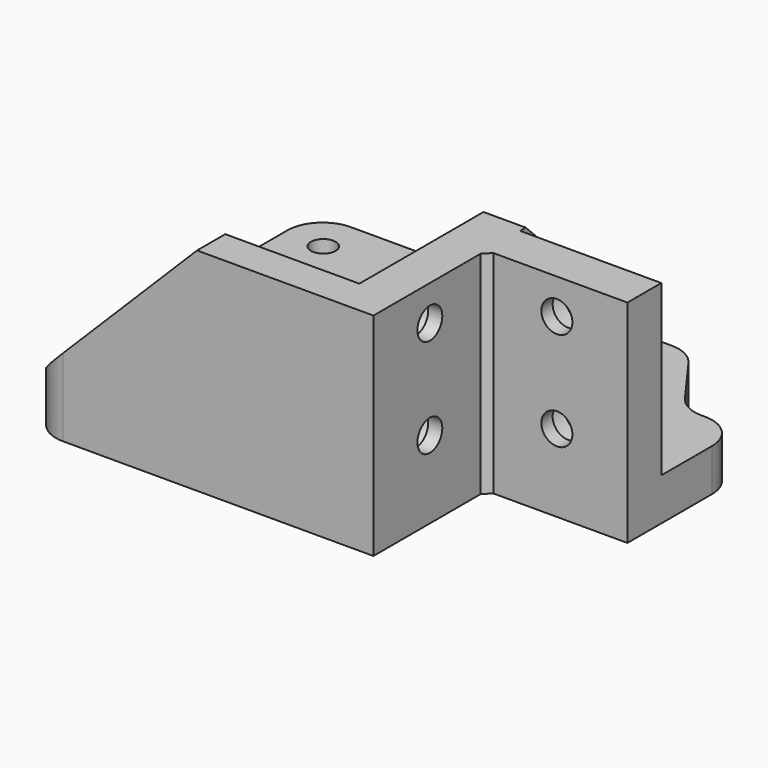
from build123d import *

# Parameters (mm, degrees)
F0_R            = 1.75
F0_R_2          = 11
F1_DEPTH        = 6
F2_SIZE         = 1
F4_DEPTH        = 24
F5_DEPTH        = 10
F6_SIZE         = 1
F8_D            = 4.4
F8_CBORE_D      = 8.25
F8_CBORE_DEPTH  = 4
F10_D           = 4.4
F10_CBORE_D     = 8.25
F10_CBORE_DEPTH = 4
F11_W           = 6
F11_H           = 24
F12_DEPTH       = 25
F13_W           = 5
F13_H           = 24
F14_DEPTH       = 43
F15_SIZE        = 24
F16_R           = 5


with BuildPart() as f1:
    # F0 (on Top) → F1 (new body)
    with BuildSketch(Plane.XY):
        Polygon((18.8770524859, 25.5778683759), (-30.1229475141, 25.5778683759), (-30.1229475141, -25.4221316241), (18.8770524859, -25.4221316241), (18.8770524859, -5.4221316241), align=None)
        with Locations((-24.6229475141, -10.9221316241)):
            Circle(F0_R, mode=Mode.SUBTRACT)
        with Locations((6.3770524859, -10.9221316241)):
            Circle(F0_R, mode=Mode.SUBTRACT)
        with Locations((-9.1229475141, 4.5778683759)):
            Circle(F0_R_2, mode=Mode.SUBTRACT)
        with Locations((-24.6229475141, 20.0778683759)):
            Circle(F0_R, mode=Mode.SUBTRACT)
        with Locations((6.3770524859, 20.0778683759)):
            Circle(F0_R, mode=Mode.SUBTRACT)
        Polygon((22.8770524859, 25.5778683759), (18.8770524859, 25.5778683759), (18.8770524859, -5.4221316241), (38.8770524859, -5.4221316241), (38.8770524859, 14.5778683759), (30.8770524859, 14.5778683759), align=None)
    extrude(amount=F1_DEPTH)

    # F2
    f2_edges = [f1.edges().sort_by_distance(p)[0] for p in [
        (-26.372948, 20.077868, 0),
        (4.627052, 20.077868, 0),
        (4.627052, -10.922132, 0),
        (-26.372948, -10.922132, 0),
    ]]
    chamfer(f2_edges, length=F2_SIZE)

    # F3 (on face) → F4 (join)
    with BuildSketch(Plane.XY.offset(6)):
        Polygon((18.8770524859, -25.4221316241), (18.8770524859, -5.4221316241), (38.8770524859, -5.4221316241), (38.8770524859, 0.5778683759), (12.8770524859, 0.5778683759), (12.8770524859, -25.4221316241), align=None)
    extrude(amount=F4_DEPTH)

    # F3 (on face) → F5 (join)
    with BuildSketch(Plane.XY.offset(6)):
        Polygon((18.8770524859, -25.4221316241), (18.8770524859, -5.4221316241), (38.8770524859, -5.4221316241), (38.8770524859, 0.5778683759), (12.8770524859, 0.5778683759), (12.8770524859, -25.4221316241), align=None)
    extrude(amount=F5_DEPTH)

    # F6
    f6_edges = [f1.edges().sort_by_distance(p)[0] for p in [
        (18.877052, -5.422132, 15),
    ]]
    chamfer(f6_edges, length=F6_SIZE)

    # F8 (through all)
    with Locations(Plane(origin=(0, 0.5778683759, 0), x_dir=(-1, 0, 0), z_dir=(0, 1, 0))):
        with Locations((-28.8770524859, 25), (-28.8770524859, 11)):
            CounterBoreHole(F8_D / 2, F8_CBORE_D / 2, F8_CBORE_DEPTH)

    # F10 (through all)
    with Locations(Plane(origin=(12.8770524859, 0, 0), x_dir=(0, -1, 0), z_dir=(-1, 0, 0))):
        with Locations((15.4221316241, 25), (15.4221316241, 11)):
            CounterBoreHole(F10_D / 2, F10_CBORE_D / 2, F10_CBORE_DEPTH)

    # F11 (on face) → F12 (join, through all)
    with BuildSketch(Plane(origin=(0, 0.5778683759, 0), x_dir=(-1, 0, 0), z_dir=(0, 1, 0))):
        with Locations((-15.8770524859, 18)):
            Rectangle(F11_W, F11_H)
    extrude(amount=F12_DEPTH)

    # F13 (on face) → F14 (join, through all)
    with BuildSketch(Plane(origin=(12.8770524859, 0, 0), x_dir=(0, -1, 0), z_dir=(-1, 0, 0))):
        with Locations((22.9221316241, 18)):
            Rectangle(F13_W, F13_H)
    extrude(amount=F14_DEPTH)

    # F15
    f15_edges = [f1.edges().sort_by_distance(p)[0] for p in [
        (-30.122948, -22.922132, 30),
        (15.877052, 25.577868, 30),
    ]]
    chamfer(f15_edges, length=F15_SIZE)

    # F16
    f16_edges = [f1.edges().sort_by_distance(p)[0] for p in [
        (30.877052, 14.577868, 3),
        (22.877052, 25.577868, 3),
        (38.877052, 14.577868, 3),
        (-30.122948, -25.422132, 3),
        (-30.122948, 25.577868, 3),
    ]]
    fillet(f16_edges, radius=F16_R)


solid = f1.part
